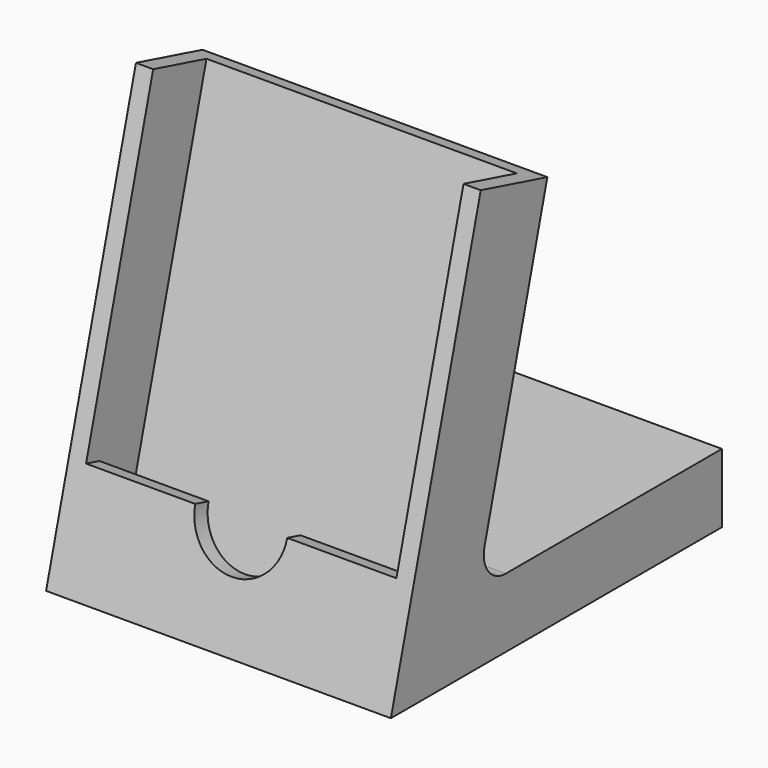
from build123d import *

# Parameters (mm, degrees)
F1_DEPTH = 63.5
F2_W     = 57.15
F2_H     = 9.525
F3_DEPTH = 72.39
F5_DEPTH = 3.175
F6_R     = 5.08


with BuildPart() as f1:
    # F0 (on Right) → F1 (new body)
    with BuildSketch(Plane.YZ):
        Polygon((20.6850513497, 77.1976625943), (0, 0), (76.2, 0), (76.2, 12.7), (19.8379641079, 12.7), (36.0191238421, 73.0889102533), align=None)
    extrude(amount=F1_DEPTH)

    # F2 (on face) → F3 (cut)
    with BuildSketch(Plane(origin=(0, 20.6850513497, 77.1976625943), x_dir=(1, 0, 0), z_dir=(0, 0.2588190451, 0.9659258263))):
        with Locations((31.75, 7.9375)):
            Rectangle(F2_W, F2_H)
    extrude(amount=-F3_DEPTH, mode=Mode.SUBTRACT)

    # F4 (on face) → F5 (cut, through all)
    with BuildSketch(Plane(origin=(0, 0, 0), x_dir=(1, 0, 0), z_dir=(0, -0.9659258263, 0.2588190451))):
        Polygon((60.325, 79.9209012672), (3.175, 79.9209012672), (3.175, 20.2309012672), (23.2833333333, 20.2309012672), (40.2166666667, 20.2309012672), (60.325, 20.2309012672), align=None)
        with BuildLine():
            Line((40.2166666667, 20.2309012672), (23.2833333333, 20.2309012672))
            ThreePointArc((23.2833333333, 20.2309012672), (31.75, 11.7642346006), (40.2166666667, 20.2309012672))
        make_face()
    extrude(amount=-F5_DEPTH, mode=Mode.SUBTRACT)

    # F6
    f6_edges = [f1.edges().sort_by_distance(p)[0] for p in [
        (31.75, 19.837964, 12.7),
    ]]
    fillet(f6_edges, radius=F6_R)


solid = f1.part
